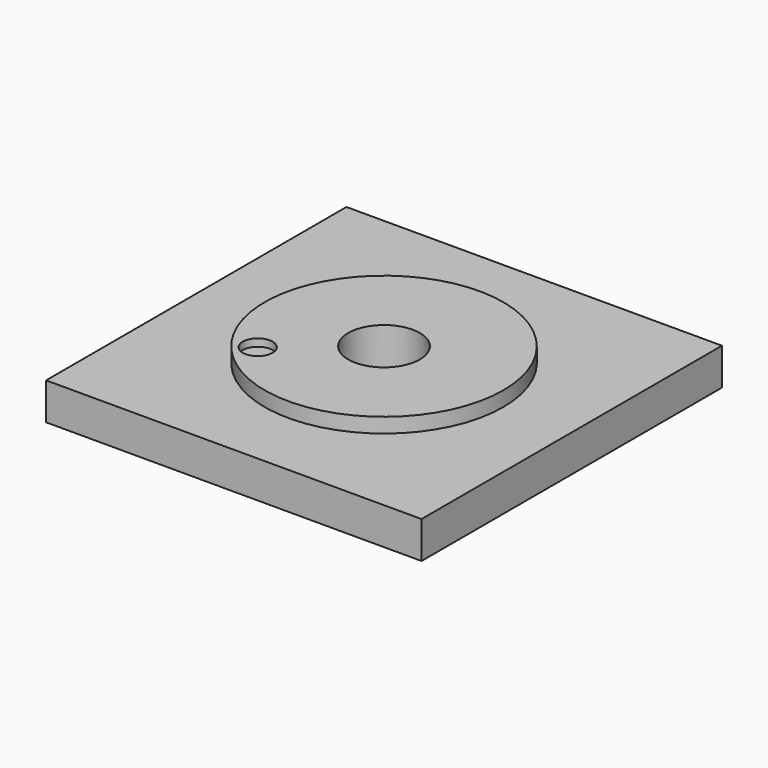
from build123d import *

# Parameters (mm, degrees)
F0_W     = 254
F0_H     = 254
F1_DEPTH = 25
F2_R     = 80.732705
F3_DEPTH = 10
F4_R     = 24.252293
F5_DEPTH = 1270
F6_R     = 10.145806
F7_DEPTH = 5


with BuildPart() as f1:
    # F0 (on Top) → F1 (new body)
    with BuildSketch(Plane.XY):
        Rectangle(F0_W, F0_H)
    extrude(amount=F1_DEPTH)

    # F2 (on face) → F3 (join)
    with BuildSketch(Plane.XY.offset(25)):
        Circle(F2_R)
    extrude(amount=F3_DEPTH)

    # F4 (on face) → F5 (cut)
    with BuildSketch(Plane.XY.offset(35)):
        Circle(F4_R)
    extrude(amount=-F5_DEPTH, mode=Mode.SUBTRACT)

    # F6 (on face) → F7 (cut)
    with BuildSketch(Plane.XY.offset(35)):
        with Locations((-51.386729, -42.582173)):
            Circle(F6_R)
    extrude(amount=-F7_DEPTH, mode=Mode.SUBTRACT)


solid = f1.part
